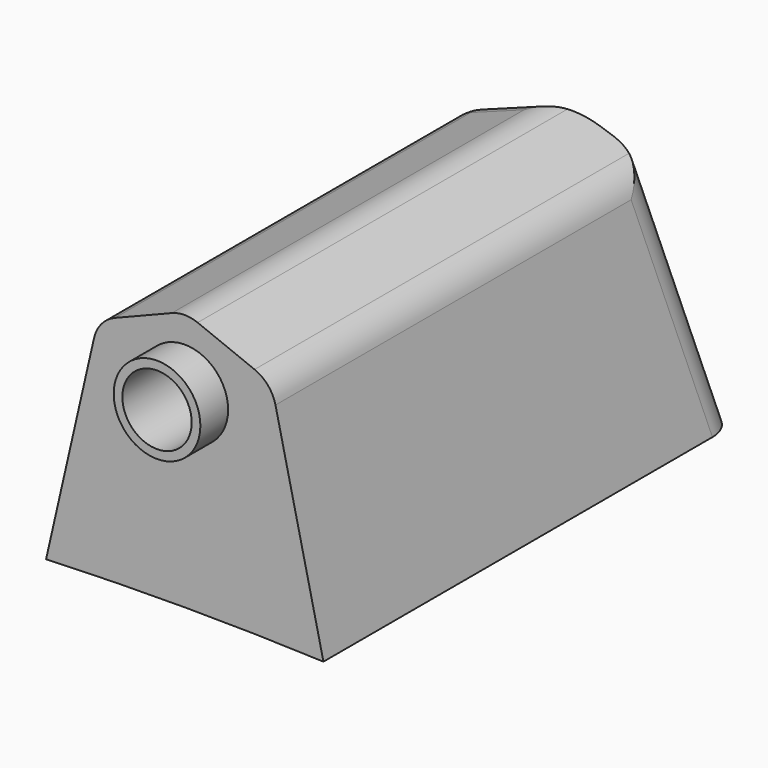
from build123d import *

# Parameters (mm, degrees)
F1_DEPTH = 30
F3_DEPTH = 12.5
F4_R     = 2
F5_R     = 2
F6_DEPTH = 10
F7_R     = 2.5
F7_R_2   = 2
F8_DEPTH = 2


with BuildPart() as f1:
    # F0 (on Front) → F1 (new body)
    with BuildSketch(Plane.XZ):
        with BuildLine():
            ThreePointArc((-8, 203.042459), (0, 203.2), (8, 203.042459))
            Line((8, 203.042459), (5, 216.2))
            Line((5, 216.2), (0, 218.2))
            Line((0, 218.2), (-5, 216.2))
            Line((-5, 216.2), (-8, 203.042459))
        make_face()
    extrude(amount=-F1_DEPTH)

    # F2 (on Right) → F3 (cut, symmetric)
    with BuildSketch(Plane.YZ):
        Polygon((30, 203.042459), (30, 218.2), (27, 218.2), align=None)
    extrude(amount=F3_DEPTH, both=True, mode=Mode.SUBTRACT)

    # F4
    f4_edges = [f1.edges().sort_by_distance(p)[0] for p in [
        (5, 13.697921, 216.2),
        (0, 13.5, 218.2),
        (-5, 13.697921, 216.2),
        (-6.5, 28.697921, 209.621229),
        (-2.5, 27.197921, 217.2),
        (6.5, 28.697921, 209.621229),
    ]]
    fillet(f4_edges, radius=F4_R)

    # F5 (on face) → F6 (cut)
    with BuildSketch(Plane.XZ):
        with Locations((0, 214.045934)):
            Circle(F5_R)
    extrude(amount=-F6_DEPTH, mode=Mode.SUBTRACT)

    # F7 (on face) → F8 (join)
    with BuildSketch(Plane.XZ):
        with Locations((0, 214.045934)):
            Circle(F7_R)
        with Locations((0, 214.045934)):
            Circle(F7_R_2, mode=Mode.SUBTRACT)
    extrude(amount=F8_DEPTH)


solid = f1.part
